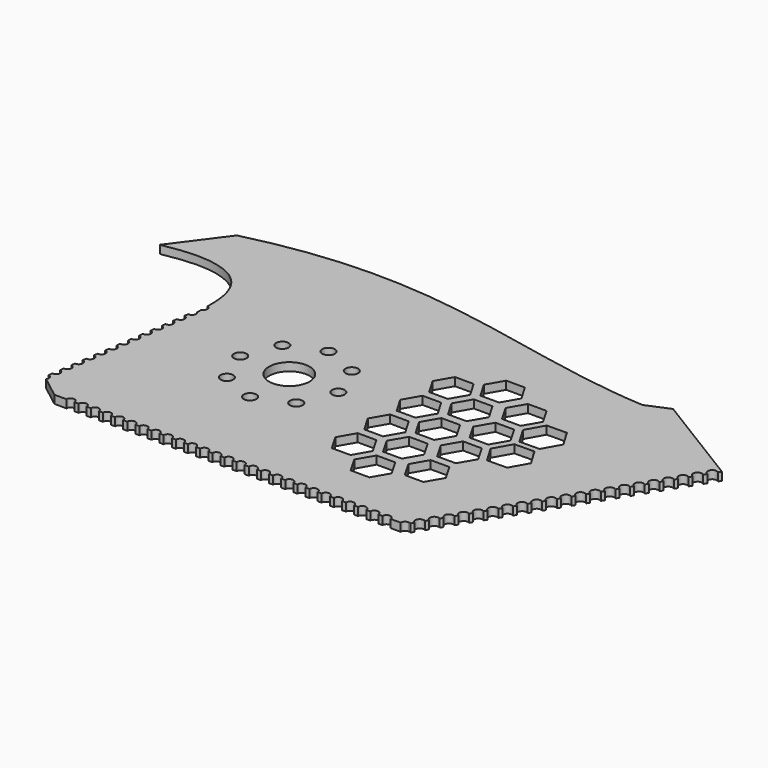
from build123d import *

# Parameters (mm, degrees)
F0_R     = 1.55
F0_R_2   = 5
F1_DEPTH = 2


with BuildPart() as f1:
    # F0 (on Top) → F1 (new body)
    with BuildSketch(Plane.XY):
        with BuildLine():
            Line((-30, 7.6408273049), (-30, -35))
            Line((-30, -35), (-27, -35))
            ThreePointArc((-27, -35), (-26, -34), (-25, -35))
            Line((-25, -35), (-24, -35))
            ThreePointArc((-24, -35), (-23, -34), (-22, -35))
            Line((-22, -35), (-21, -35))
            ThreePointArc((-21, -35), (-20, -34), (-19, -35))
            Line((-19, -35), (-18, -35))
            ThreePointArc((-18, -35), (-17, -34), (-16, -35))
            Line((-16, -35), (-15, -35))
            ThreePointArc((-15, -35), (-14, -34), (-13, -35))
            Line((-13, -35), (-12, -35))
            ThreePointArc((-12, -35), (-11, -34), (-10, -35))
            Line((-10, -35), (-9, -35))
            ThreePointArc((-9, -35), (-8, -34), (-7, -35))
            Line((-7, -35), (-6, -35))
            ThreePointArc((-6, -35), (-5, -34), (-4, -35))
            Line((-4, -35), (-3, -35))
            ThreePointArc((-3, -35), (-2, -34), (-1, -35))
            Line((-1, -35), (0, -35))
            ThreePointArc((0, -35), (1, -34), (2, -35))
            Line((2, -35), (3, -35))
            ThreePointArc((3, -35), (4, -34), (5, -35))
            Line((5, -35), (6, -35))
            ThreePointArc((6, -35), (7, -34), (8, -35))
            Line((8, -35), (9, -35))
            ThreePointArc((9, -35), (10, -34), (11, -35))
            Line((11, -35), (12, -35))
            ThreePointArc((12, -35), (13, -34), (14, -35))
            Line((14, -35), (15, -35))
            ThreePointArc((15, -35), (16, -34), (17, -35))
            Line((17, -35), (18, -35))
            ThreePointArc((18, -35), (19, -34), (20, -35))
            Line((20, -35), (21, -35))
            ThreePointArc((21, -35), (22, -34), (23, -35))
            Line((23, -35), (24, -35))
            ThreePointArc((24, -35), (25, -34), (26, -35))
            Line((26, -35), (27, -35))
            ThreePointArc((27, -35), (28, -34), (29, -35))
            Line((29, -35), (30, -35))
            ThreePointArc((30, -35), (31, -34), (32, -35))
            Line((32, -35), (33, -35))
            ThreePointArc((33, -35), (34, -34), (35, -35))
            Line((35, -35), (36, -35))
            ThreePointArc((36, -35), (37, -34), (38, -35))
            Line((38, -35), (39, -35))
            ThreePointArc((39, -35), (40, -34), (41, -35))
            Line((41, -35), (42, -35))
            ThreePointArc((42, -35), (43, -34), (44, -35))
            Line((44, -35), (45, -35))
            ThreePointArc((45, -35), (46, -34), (47, -35))
            Line((47, -35), (48, -35))
            ThreePointArc((48, -35), (49, -34), (50, -35))
            Line((50, -35), (51, -35))
            ThreePointArc((51, -35), (52, -34), (53, -35))
            Line((53, -35), (55.4829866344, -35))
            ThreePointArc((55.4829866344, -35), (55.8043738557, -34.2241026116), (56.580271244, -33.9027153903))
            Line((56.580271244, -33.9027153903), (56.580271244, -4.2583165455))
            Line((56.580271244, -4.2583165455), (52.2413361319, -4.3119830645))
            Line((52.2413361319, -4.3119830645), (49.7165082104, -0.0611471761))
            Line((49.7165082104, -0.0611471761), (52.1354261163, 4.2508358884))
            Line((52.1354261163, 4.2508358884), (56.580271244, 4.3058123652))
            Line((56.580271244, 4.3058123652), (56.580271244, 5.7416834545))
            Line((56.580271244, 5.7416834545), (52.2413361319, 5.6880169355))
            Line((52.2413361319, 5.6880169355), (49.7165082104, 9.9388528239))
            Line((49.7165082104, 9.9388528239), (52.1354261163, 14.2508358884))
            Line((52.1354261163, 14.2508358884), (56.580271244, 14.3058123652))
            Line((56.580271244, 14.3058123652), (56.580271244, 17.3804498464))
            Line((56.580271244, 17.3804498464), (56.580271244, 27.3804498464))
            Line((56.580271244, 27.3804498464), (-30, 27.3804498464))
            Line((-30, 27.3804498464), (-30, 13.4548675269))
            Line((-30, 13.4548675269), (-30, 12.2819586335))
            ThreePointArc((-30, 12.2819586335), (-29.4836140681, 11.9213134548), (-29.2852543803, 11.3235067889))
            ThreePointArc((-29.2852543803, 11.3235067889), (-29.4836140681, 10.7257001229), (-30, 10.3650549442))
            Line((-30, 10.3650549442), (-30, 9.0644628216))
            ThreePointArc((-30, 9.0644628216), (-29.7797688982, 8.7384142905), (-29.7023642067, 8.3526450633))
            ThreePointArc((-29.7023642067, 8.3526450633), (-29.7797688982, 7.9668758361), (-30, 7.6408273049))
        make_face()
        with Locations((0, -12.1139100224)):
            Circle(F0_R, mode=Mode.SUBTRACT)
        with Locations((-8.5658279235, -8.5658279235)):
            Circle(F0_R, mode=Mode.SUBTRACT)
        with Locations((8.5658279235, -8.5658279235)):
            Circle(F0_R, mode=Mode.SUBTRACT)
        with Locations((-12.1139100224, 0)):
            Circle(F0_R, mode=Mode.SUBTRACT)
        Circle(F0_R_2, mode=Mode.SUBTRACT)
        with Locations((12.1139100224, 0)):
            Circle(F0_R, mode=Mode.SUBTRACT)
        Polygon((30.3094010768, -11), (32.6188021535, -15), (30.3094010768, -19), (25.6905989232, -19), (23.3811978465, -15), (25.6905989232, -11), align=None, mode=Mode.SUBTRACT)
        Polygon((38.9696551146, -16), (41.2790561914, -20), (38.9696551146, -24), (34.3508529611, -24), (32.0414518843, -20), (34.3508529611, -16), align=None, mode=Mode.SUBTRACT)
        Polygon((50.6188021535, -15), (48.3094010768, -19), (43.6905989232, -19), (41.3811978465, -15), (43.6905989232, -11), (48.3094010768, -11), align=None, mode=Mode.SUBTRACT)
        Polygon((32.6188021535, -5), (30.3094010768, -9), (25.6905989232, -9), (23.3811978465, -5), (25.6905989232, -1), (30.3094010768, -1), align=None, mode=Mode.SUBTRACT)
        Polygon((34.3508529611, -14), (32.0414518843, -10), (34.3508529611, -6), (38.9696551146, -6), (41.2790561914, -10), (38.9696551146, -14), align=None, mode=Mode.SUBTRACT)
        Polygon((50.6188021535, -5), (48.3094010768, -9), (43.6905989232, -9), (41.3811978465, -5), (43.6905989232, -1), (48.3094010768, -1), align=None, mode=Mode.SUBTRACT)
        Polygon((32.6188021535, 5), (30.3094010768, 1), (25.6905989232, 1), (23.3811978465, 5), (25.6905989232, 9), (30.3094010768, 9), align=None, mode=Mode.SUBTRACT)
        Polygon((34.3508529611, -4), (32.0414518843, 0), (34.3508529611, 4), (38.9696551146, 4), (41.2790561914, 0), (38.9696551146, -4), align=None, mode=Mode.SUBTRACT)
        Polygon((50.6188021535, 5), (48.3094010768, 1), (43.6905989232, 1), (41.3811978465, 5), (43.6905989232, 9), (48.3094010768, 9), align=None, mode=Mode.SUBTRACT)
        with Locations((-8.5658279235, 8.5658279235)):
            Circle(F0_R, mode=Mode.SUBTRACT)
        with Locations((0, 12.1139100224)):
            Circle(F0_R, mode=Mode.SUBTRACT)
        with Locations((8.5658279235, 8.5658279235)):
            Circle(F0_R, mode=Mode.SUBTRACT)
        Polygon((32.6188021535, 15), (30.3094010768, 11), (25.6905989232, 11), (23.3811978465, 15), (25.6905989232, 19), (30.3094010768, 19), align=None, mode=Mode.SUBTRACT)
        Polygon((34.3508529611, 6), (32.0414518843, 10), (34.3508529611, 14), (38.9696551146, 14), (41.2790561914, 10), (38.9696551146, 6), align=None, mode=Mode.SUBTRACT)
        Polygon((50.6188021535, 15), (48.3094010768, 11), (43.6905989232, 11), (41.3811978465, 15), (43.6905989232, 19), (48.3094010768, 19), align=None, mode=Mode.SUBTRACT)
        Polygon((34.3508529611, 16), (32.0414518843, 20), (34.3508529611, 24), (38.9696551146, 24), (41.2790561914, 20), (38.9696551146, 16), align=None, mode=Mode.SUBTRACT)
        with BuildLine():
            add(Edge.make_bspline(
                [(-53.2166808844, 26.5718940645), (-47.5903554163, 27.6488211986), (-37.3216348242, 28.4011111405), (-30, 21.7784792185), (-30, 13.4548675269)],
                knots=[0, 0, 0, 0, 0.4975199485, 1, 1, 1, 1], degree=3))
            Line((-30, 13.4548675269), (-30, 27.3804498464))
            Line((-30, 27.3804498464), (56.580271244, 27.3804498464))
            Line((56.580271244, 27.3804498464), (56.580271244, 17.3804498464))
            Line((56.580271244, 17.3804498464), (56.580271244, 14.3058123652))
            Line((56.580271244, 14.3058123652), (57.0791719437, 14.3119830645))
            Line((57.0791719437, 14.3119830645), (59.6039998653, 10.0611471761))
            Line((59.6039998653, 10.0611471761), (57.1850819594, 5.7491641116))
            Line((57.1850819594, 5.7491641116), (56.580271244, 5.7416834545))
            Line((56.580271244, 5.7416834545), (56.580271244, 4.3058123652))
            Line((56.580271244, 4.3058123652), (57.0791719437, 4.3119830645))
            Line((57.0791719437, 4.3119830645), (59.6039998653, 0.0611471761))
            Line((59.6039998653, 0.0611471761), (57.1850819594, -4.2508358884))
            Line((57.1850819594, -4.2508358884), (56.580271244, -4.2583165455))
            Line((56.580271244, -4.2583165455), (56.580271244, -33.9027153903))
            ThreePointArc((56.580271244, -33.9027153903), (56.8785279037, -33.9440281824), (57.1543258226, -34.0648557034))
            Line((57.1543258226, -34.0648557034), (57.5757114709, -33.3784115909))
            ThreePointArc((57.5757114709, -33.3784115909), (57.2055326388, -31.8636936622), (58.7237667178, -31.5082108179))
            Line((58.7237667178, -31.5082108179), (59.1452601938, -30.8215910524))
            ThreePointArc((59.1452601938, -30.8215910524), (58.7659383302, -29.3014419028), (60.2931536955, -28.9516537651))
            Line((60.2931536955, -28.9516537651), (60.7148628571, -28.2646826442))
            ThreePointArc((60.7148628571, -28.2646826442), (60.3263440216, -26.7391901435), (61.8624867328, -26.3951845822))
            Line((61.8624867328, -26.3951845822), (62.2845194989, -25.7076863042))
            ThreePointArc((62.2845194989, -25.7076863042), (61.886749713, -24.1769383841), (63.4317657916, -23.8388033309))
            Line((63.4317657916, -23.8388033309), (63.8542301724, -23.1506019456))
            ThreePointArc((63.8542301724, -23.1506019456), (63.4471554044, -21.6146866248), (65.0009908187, -21.2825100983))
            Line((65.0009908187, -21.2825100983), (65.4239949464, -20.5934294564))
            ThreePointArc((65.4239949464, -20.5934294564), (65.0075610958, -19.0524348654), (66.5701617453, -18.7263049963))
            Line((66.5701617453, -18.7263049963), (66.9938139049, -18.0361686997))
            ThreePointArc((66.9938139049, -18.0361686997), (66.5679667872, -16.4901831061), (68.1392784873, -16.1701881617))
            Line((68.1392784873, -16.1701881617), (68.5636871478, -15.478819513))
            ThreePointArc((68.5636871478, -15.478819513), (68.1283724786, -13.9279313467), (69.7083409451, -13.6141597573))
            Line((69.7083409451, -13.6141597573), (70.1336147904, -12.9213817082))
            ThreePointArc((70.1336147904, -12.9213817082), (69.68877817, -11.3656795874), (71.277349003, -11.0582199709))
            Line((71.277349003, -11.0582199709), (71.7035969641, -10.3638550713))
            ThreePointArc((71.7035969641, -10.3638550713), (71.2491838614, -8.8034278281), (72.8463025299, -8.5023690165))
            Line((72.8463025299, -8.5023690165), (73.2736338163, -7.8062393623))
            ThreePointArc((73.2736338163, -7.8062393623), (72.8095895528, -6.2411760687), (74.4152013783, -5.9466071343))
            Line((74.4152013783, -5.9466071343), (74.8437255107, -5.2485343145))
            ThreePointArc((74.8437255107, -5.2485343145), (74.3699952442, -3.6789243094), (75.9840453845, -3.3909345909))
            Line((75.9840453845, -3.3909345909), (76.4138722275, -2.6907396342))
            ThreePointArc((76.4138722275, -2.6907396342), (75.9304009356, -1.11667255), (77.5528343683, -0.83535168))
            Line((77.5528343683, -0.83535168), (77.9840741638, -0.1328550005))
            ThreePointArc((77.9840741638, -0.1328550005), (77.490806627, 1.4455792093), (79.1215681326, 1.7201412776))
            Line((79.1215681326, 1.7201412776), (79.5543315337, 2.4251199354))
            ThreePointArc((79.5543315337, 2.4251199354), (79.0512123184, 4.0078309687), (80.6902464633, 4.2755439329))
            Line((80.6902464633, 4.2755439329), (81.1246445686, 4.9831855506))
            ThreePointArc((81.1246445686, 4.9831855506), (80.6116180097, 6.570082728), (82.258869129, 6.8308559089))
            Line((82.258869129, 6.8308559089), (82.6950135179, 7.5413422513))
            ThreePointArc((82.6950135179, 7.5413422513), (82.1720237011, 9.1323344874), (83.8274358802, 9.3860767994))
            Line((83.8274358802, 9.3860767994), (84.265438649, 10.099590473))
            ThreePointArc((84.265438649, 10.099590473), (83.7324293925, 11.6945862467), (85.3959464497, 11.941206169))
            Line((85.3959464497, 11.941206169), (85.8359202478, 12.6579306815))
            ThreePointArc((85.8359202478, 12.6579306815), (85.2928350839, 14.256838006), (86.9644005515, 14.4962435517))
            Line((86.9644005515, 14.4962435517), (87.4064586193, 15.2163633736))
            ThreePointArc((87.4064586193, 15.2163633736), (86.8532407753, 16.8190897654), (88.5327978806, 17.0511884508))
            Line((88.5327978806, 17.0511884508), (88.9770540879, 17.7748890778))
            ThreePointArc((88.9770540879, 17.7748890778), (88.4136464667, 19.3813415247), (90.1011381127, 19.6060403378))
            Line((90.1011381127, 19.6060403378), (90.53581101, 20.3141295963))
            Line((90.53581101, 20.3141295963), (66.8478574681, 34.8553915547))
            Line((66.8478574681, 34.8553915547), (61.1942160335, 32.4683850886))
            add(Edge.make_bspline(
                [(-44.0745055676, 38.8939529657), (0, 50.023548305), (26.1046421665, 34.6102410477), (61.1942160335, 32.4683850886)],
                knots=[0, 0, 0, 0, 105.4646465412, 105.4646465412, 105.4646465412, 105.4646465412], degree=3))
            Line((-44.0745055676, 38.8939529657), (-53.2166808844, 26.5718940645))
        make_face()
        with BuildLine():
            Line((-35.3334224899, -30.8798955556), (-30, -35))
            Line((-30, -35), (-30, 7.6408273049))
            ThreePointArc((-30, 7.6408273049), (-30.3938310839, 7.4014314636), (-30.853198704, 7.364086034))
            Line((-30.853198704, 7.364086034), (-30.9919437939, 6.3736180205))
            ThreePointArc((-30.9919437939, 6.3736180205), (-30.3686310937, 6.0422641325), (-30.1194740331, 5.3817833377))
            ThreePointArc((-30.1194740331, 5.3817833377), (-30.4675169035, 4.6235275094), (-31.2693778353, 4.393082751))
            Line((-31.2693778353, 4.393082751), (-31.4081199747, 3.4026357999))
            ThreePointArc((-31.4081199747, 3.4026357999), (-30.7854301187, 3.0710489161), (-30.5365838595, 2.410921612))
            ThreePointArc((-30.5365838595, 2.410921612), (-30.8842698953, 1.6529727404), (-31.6855568437, 1.4220803457))
            Line((-31.6855568437, 1.4220803457), (-31.8242962786, 0.4316527015))
            ThreePointArc((-31.8242962786, 0.4316527015), (-31.2022293131, 0.099833557), (-30.9536936859, -0.5599401136))
            ThreePointArc((-30.9536936859, -0.5599401136), (-31.3010230351, -1.3175818637), (-32.1017357291, -1.5489211819))
            Line((-32.1017357291, -1.5489211819), (-32.2404727053, -2.5393312744))
            ThreePointArc((-32.2404727053, -2.5393312744), (-31.6190286767, -2.8713819453), (-31.3708035123, -3.5308018392))
            ThreePointArc((-31.3708035123, -3.5308018392), (-31.7177763227, -4.2881363027), (-32.5179144915, -4.5199218318))
            Line((-32.5179144915, -4.5199218318), (-32.6566492551, -5.5103161281))
            ThreePointArc((-32.6566492551, -5.5103161281), (-32.0358282094, -5.8425975907), (-31.7879133387, -6.5016635648))
            ThreePointArc((-31.7879133387, -6.5016635648), (-32.1345297578, -7.2586905763), (-32.9340931311, -7.4909216041))
            Line((-32.9340931311, -7.4909216041), (-33.0728259277, -8.4813018593))
            ThreePointArc((-33.0728259277, -8.4813018593), (-32.4526279108, -8.8138133797), (-32.2050231651, -9.4725252904))
            ThreePointArc((-32.2050231651, -9.4725252904), (-32.5512833402, -10.2292446844), (-33.3502716476, -10.4619204988))
            Line((-33.3502716476, -10.4619204988), (-33.4890027233, -11.4522884681))
            ThreePointArc((-33.4890027233, -11.4522884681), (-32.8694277809, -11.7850293124), (-32.6221329915, -12.443387016))
            ThreePointArc((-32.6221329915, -12.443387016), (-32.9680370696, -13.1997986268), (-33.7664500413, -13.4329185159))
            Line((-33.7664500413, -13.4329185159), (-33.9051796418, -14.4232759545))
            ThreePointArc((-33.9051796418, -14.4232759545), (-33.2862278194, -14.7562453891), (-33.039242818, -15.4142487416))
            ThreePointArc((-33.039242818, -15.4142487416), (-33.3847909458, -16.1703524032), (-34.182628312, -16.4039156554))
            Line((-34.182628312, -16.4039156554), (-34.3213566832, -17.3942643185))
            ThreePointArc((-34.3213566832, -17.3942643185), (-33.703028026, -17.72746161), (-33.4563526444, -18.3851104673))
            ThreePointArc((-33.4563526444, -18.3851104673), (-33.8015449686, -19.1409060135), (-34.5988064598, -19.3749119173))
            Line((-34.5988064598, -19.3749119173), (-34.7375338476, -20.3652535601))
            ThreePointArc((-34.7375338476, -20.3652535601), (-34.1198284007, -20.6986779753), (-33.8734624708, -21.3559721929))
            ThreePointArc((-33.8734624708, -21.3559721929), (-34.2182991377, -22.1114594575), (-35.0149844847, -22.3459073016))
            Line((-35.0149844847, -22.3459073016), (-35.1537111349, -23.3362436791))
            ThreePointArc((-35.1537111349, -23.3362436791), (-34.5366289431, -23.6698944853), (-34.2905722972, -24.3268339185))
            ThreePointArc((-34.2905722972, -24.3268339185), (-34.6350534528, -25.0820127349), (-35.4311623866, -25.3169018085))
            Line((-35.4311623866, -25.3169018085), (-35.5698885451, -26.3072346758))
            ThreePointArc((-35.5698885451, -26.3072346758), (-34.9534296531, -26.6411111402), (-34.7076821236, -27.2976956441))
            ThreePointArc((-34.7076821236, -27.2976956441), (-35.0518079139, -28.0525658455), (-35.8473401656, -28.2878954377))
            Line((-35.8473401656, -28.2878954377), (-35.9860660783, -29.27822655))
            ThreePointArc((-35.9860660783, -29.27822655), (-35.3702305305, -29.6123279402), (-35.12479195, -30.2685573697))
            ThreePointArc((-35.12479195, -30.2685573697), (-35.1783857317, -30.591536115), (-35.3334224899, -30.8798955556))
        make_face()
    extrude(amount=F1_DEPTH)


solid = f1.part
